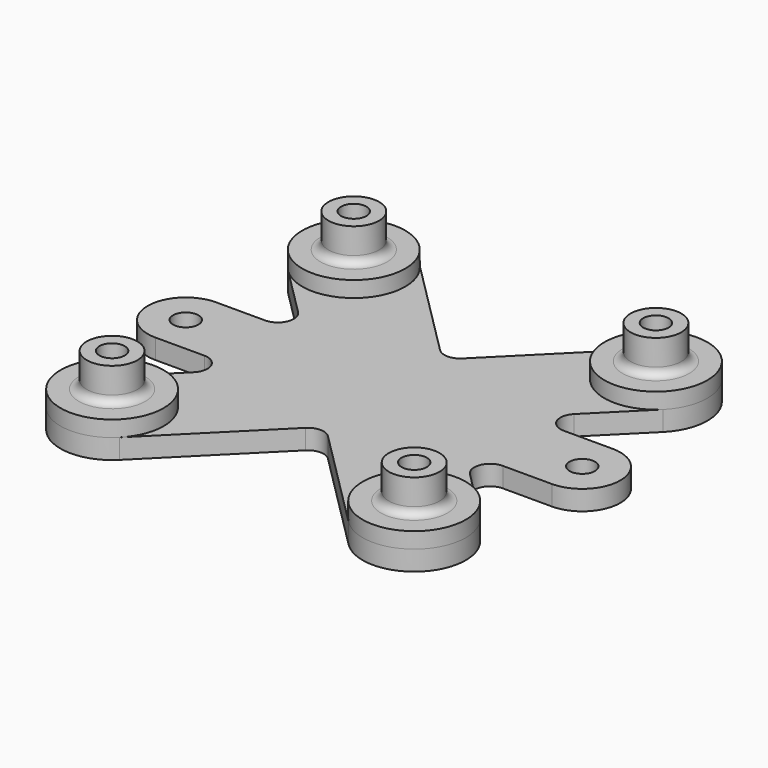
from build123d import *

# Parameters (mm, degrees)
SKETCH009_R     = 1.6
PAD003_DEPTH    = 2.5
SKETCH010_R     = 1.6
PAD004_DEPTH    = 2.5
FILLET002_R     = 2
SKETCH011_R     = 6.5
SKETCH011_R_2   = 1.6
PAD005_DEPTH    = 2
SKETCH012_R     = 3.2
SKETCH012_R_2   = 1.6
PAD006_DEPTH    = 4.25
FILLET003_R     = 1
POCKET006_DEPTH = 2.5


with BuildPart() as part:
    # Sketch009 → Pad003 (new body)
    with BuildSketch(Plane.XY):
        with BuildLine():
            ThreePointArc((23.646194, 14.453806), (23.646194, 23.646194), (14.453806, 23.646194))
            Line((14.453806, 23.646194), (0, 9.192388))
            Line((-14.453806, 23.646194), (0, 9.192388))
            ThreePointArc((-14.453806, 23.646194), (-23.646194, 23.646194), (-23.646194, 14.453806))
            Line((-9.192388, 0), (-23.646194, 14.453806))
            Line((-23.646194, -14.453806), (-9.192388, 0))
            ThreePointArc((-23.646194, -14.453806), (-23.646194, -23.646194), (-14.453806, -23.646194))
            Line((-14.453806, -23.646194), (0, -9.192388))
            Line((14.453806, -23.646194), (0, -9.192388))
            ThreePointArc((14.453806, -23.646194), (23.646194, -23.646194), (23.646194, -14.453806))
            Line((23.646194, -14.453806), (9.192388, 0))
            Line((23.646194, 14.453806), (9.192388, 0))
        make_face()
        with Locations((19.05, 19.05)):
            Circle(SKETCH009_R, mode=Mode.SUBTRACT)
        with Locations((-19.05, 19.05)):
            Circle(SKETCH009_R, mode=Mode.SUBTRACT)
        with Locations((-19.05, -19.05)):
            Circle(SKETCH009_R, mode=Mode.SUBTRACT)
        with Locations((19.05, -19.05)):
            Circle(SKETCH009_R, mode=Mode.SUBTRACT)
    extrude(amount=PAD003_DEPTH)

    # Sketch010 → Pad004 (join)
    with BuildSketch(Plane.XY):
        with BuildLine():
            ThreePointArc((-25, 4.8), (-29.8, 0), (-25, -4.8))
            Line((-25, -4.8), (25, -4.8))
            ThreePointArc((25, -4.8), (29.8, 0), (25, 4.8))
            Line((25, 4.8), (-25, 4.8))
        make_face()
        with Locations((-25, 0)):
            Circle(SKETCH010_R, mode=Mode.SUBTRACT)
        with Locations((25, 0)):
            Circle(SKETCH010_R, mode=Mode.SUBTRACT)
    extrude(amount=PAD004_DEPTH)

    # Fillet002
    fillet002_edges = [part.edges().sort_by_distance(p)[0] for p in [
        (13.992388, 4.8, 1.25),
        (13.992388, -4.8, 1.25),
        (0, -9.192388, 1.25),
        (-13.992388, -4.8, 1.25),
        (-13.992388, 4.8, 1.25),
        (0, 9.192388, 1.25),
    ]]
    fillet(fillet002_edges, radius=FILLET002_R)

    # Sketch011 (on Face16 of Fillet002) → Pad005 (join)
    with BuildSketch(Plane.XY.offset(2.5)):
        with Locations((-19.05, 19.05)):
            Circle(SKETCH011_R)
        with Locations((-19.05, 19.05)):
            Circle(SKETCH011_R_2, mode=Mode.SUBTRACT)
        with Locations((19.05, 19.05)):
            Circle(SKETCH011_R)
        with Locations((19.05, 19.05)):
            Circle(SKETCH011_R_2, mode=Mode.SUBTRACT)
        with Locations((19.05, -19.05)):
            Circle(SKETCH011_R)
        with Locations((19.05, -19.05)):
            Circle(SKETCH011_R_2, mode=Mode.SUBTRACT)
        with Locations((-19.05, -19.05)):
            Circle(SKETCH011_R)
        with Locations((-19.05, -19.05)):
            Circle(SKETCH011_R_2, mode=Mode.SUBTRACT)
    extrude(amount=PAD005_DEPTH)

    # Sketch012 (on Face52 of Pad005) → Pad006 (join)
    with BuildSketch(Plane.XY.offset(4.5)):
        with Locations((-19.05, 19.05)):
            Circle(SKETCH012_R)
        with Locations((-19.05, 19.05)):
            Circle(SKETCH012_R_2, mode=Mode.SUBTRACT)
        with Locations((19.05, 19.05)):
            Circle(SKETCH012_R)
        with Locations((19.05, 19.05)):
            Circle(SKETCH012_R_2, mode=Mode.SUBTRACT)
        with Locations((19.05, -19.05)):
            Circle(SKETCH012_R)
        with Locations((19.05, -19.05)):
            Circle(SKETCH012_R_2, mode=Mode.SUBTRACT)
        with Locations((-19.05, -19.05)):
            Circle(SKETCH012_R)
        with Locations((-19.05, -19.05)):
            Circle(SKETCH012_R_2, mode=Mode.SUBTRACT)
    extrude(amount=PAD006_DEPTH)

    # Fillet003
    fillet003_edges = [part.edges().sort_by_distance(p)[0] for p in [
        (15.85, -19.05, 4.5),
        (15.85, 19.05, 4.5),
        (-22.25, 19.05, 4.5),
        (-22.25, -19.05, 4.5),
    ]]
    fillet(fillet003_edges, radius=FILLET003_R)

    # Sketch013 (on Face22 of Fillet003) → Pocket006 (cut)
    with BuildSketch(Plane(origin=(0, 0, 0), x_dir=(1, 0, 0), z_dir=(0, 0, -1))):
        Polygon((-15.8, 19.05), (-17.425, 21.864583), (-20.675, 21.864583), (-22.3, 19.05), (-20.675, 16.235417), (-17.425, 16.235417), align=None)
        Polygon((22.3, 19.05), (20.675, 21.864583), (17.425, 21.864583), (15.8, 19.05), (17.425, 16.235417), (20.675, 16.235417), align=None)
        Polygon((22.3, -19.05), (20.675, -16.235417), (17.425, -16.235417), (15.8, -19.05), (17.425, -21.864583), (20.675, -21.864583), align=None)
        Polygon((-15.8, -19.05), (-17.425, -16.235417), (-20.675, -16.235417), (-22.3, -19.05), (-20.675, -21.864583), (-17.425, -21.864583), align=None)
    extrude(amount=-POCKET006_DEPTH, mode=Mode.SUBTRACT)


solid = part.part
